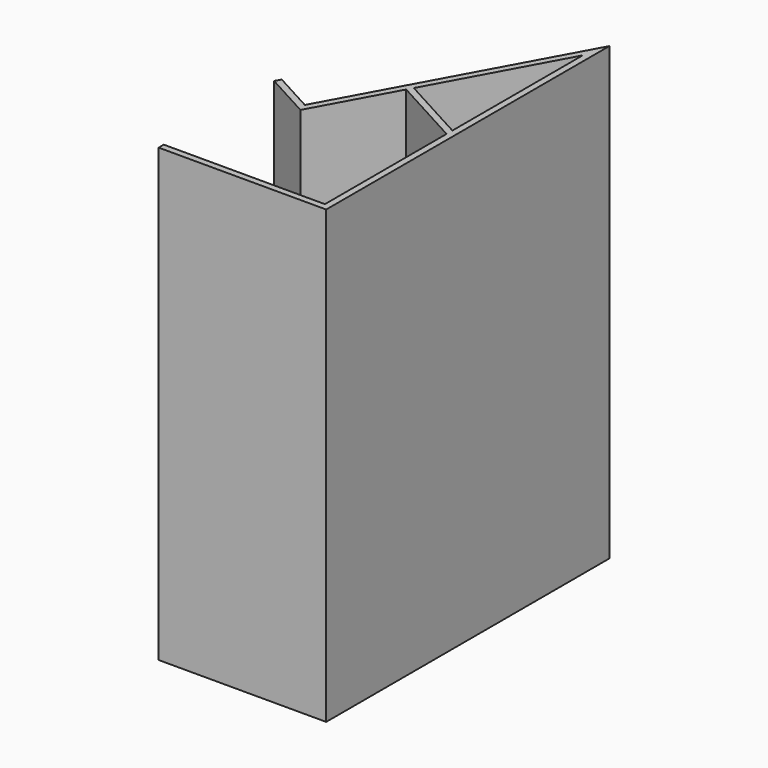
from build123d import *

# Parameters (mm, degrees)
F1_DEPTH = 140


with BuildPart() as f1:
    # F0 (on Top) → F1 (new body)
    with BuildSketch(Plane.XY):
        Polygon((0, 47.177897), (0, 0), (-50, 0), (-50, -2), (2, -2), (2, 107.840172), (-36.321678, 37.615896), (-49.041958, 44.557405), (-50, 42.801798), (-35.524113, 34.902247), (-22.210969, 59.298514), (-21.252927, 61.054121), (0, 100), (0, 49.456311), align=None)
        Polygon((-22.210969, 59.298514), (0, 47.177897), (0, 49.456311), (-21.252927, 61.054121), align=None)
    extrude(amount=F1_DEPTH)


solid = f1.part
